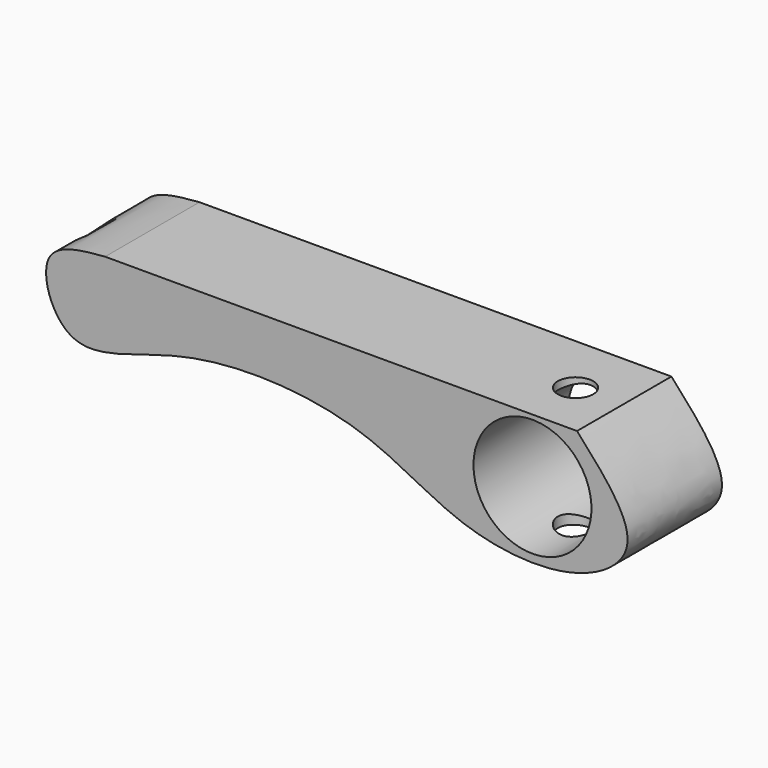
from build123d import *

# Parameters (mm, degrees)
F1_DEPTH = 12.7
F4_D     = 12.7
F6_D     = 3.81


with BuildPart() as f1:
    # F0 (on Front) → F1 (new body)
    with BuildSketch(Plane.XZ):
        with BuildLine():
            Line((0, 0), (-38.522054287, 0))
            add(Edge.make_bspline(
                [(0, -12.7), (-3.9088144662, -11.3140427663), (-10.8702680045, -6.1275864471), (-30.0486968361, -5.0650993176), (-42.7156940671, -11.9896491532), (-46.5598724522, -0.6882650666), (-41.1743172689, -0.2271088896), (-38.522054287, 0)],
                knots=[0.3624930909, 0.3624930909, 0.3624930909, 0.3624930909, 0.4990727666, 0.6672494415, 0.8005685476, 0.9017845625, 1, 1, 1, 1], degree=3))
            Line((0, -12.7), (0, 0))
        make_face()
        with BuildLine():
            Line((12.277945713, 0), (0, 0))
            Line((0, 0), (0, -12.7))
            add(Edge.make_bspline(
                [(12.277945713, 0), (15.1190577628, -3.1522399748), (20.3126756495, -8.914606833), (12.0533470864, -14.8688832145), (3.87249632, -14.073079826), (0, -12.7)],
                knots=[0, 0, 0, 0, 0.1242776686, 0.2271824241, 0.3624930909, 0.3624930909, 0.3624930909, 0.3624930909], degree=3))
        make_face()
    extrude(amount=F1_DEPTH)

    # F4 (through all)
    with Locations(Plane.XZ.offset(12.7)):
        with Locations((7.4782487936, -6.8388413638)):
            Hole(F4_D / 2)

    # F6 (through all)
    with Locations(Plane.XY):
        with Locations((7.2538945824, -6.6242422909)):
            Hole(F6_D / 2)


solid = f1.part
